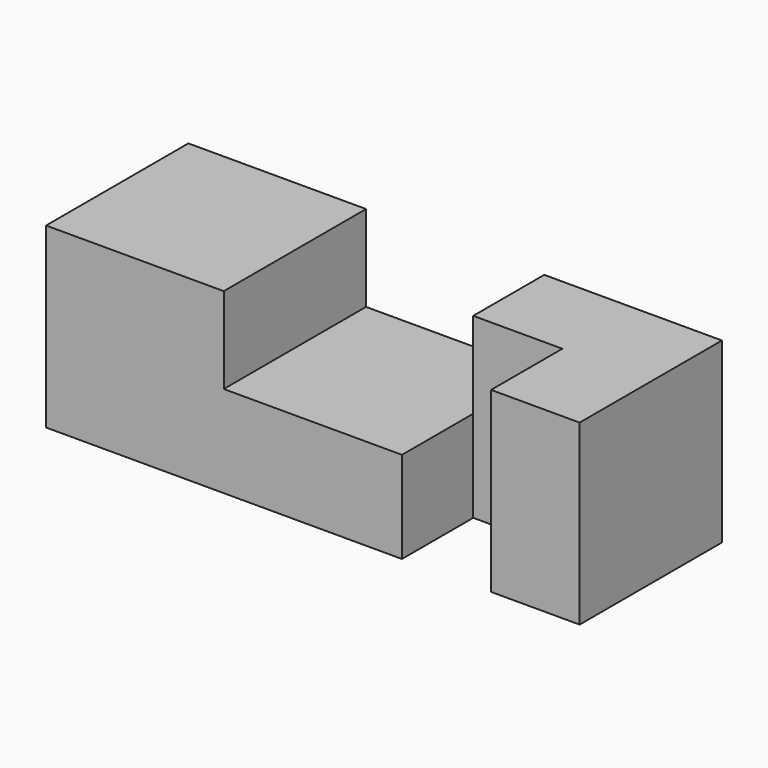
from build123d import *

# Parameters (mm, degrees)
F0_W     = 76.2
F0_H     = 25.4
F1_DEPTH = 25.4
F2_W     = 25.4508
F2_H     = 12.7254
F3_DEPTH = 25.4
F4_W     = 12.7254
F4_H     = 12.7254
F5_DEPTH = 25.4


with BuildPart() as f1:
    # F0 (on Top) → F1 (new body)
    with BuildSketch(Plane.XY):
        with Locations((38.1, 12.7)):
            Rectangle(F0_W, F0_H)
    extrude(amount=F1_DEPTH)

    # F2 (on Front) → F3 (cut)
    with BuildSketch(Plane.XZ):
        with Locations((38.1, 19.458432)):
            Rectangle(F2_W, F2_H)
    extrude(amount=-F3_DEPTH, mode=Mode.SUBTRACT)

    # F4 (on face) → F5 (cut)
    with BuildSketch(Plane.XY.offset(25.4)):
        with Locations((57.1881, 6.3627)):
            Rectangle(F4_W, F4_H)
    extrude(amount=-F5_DEPTH, mode=Mode.SUBTRACT)


solid = f1.part
